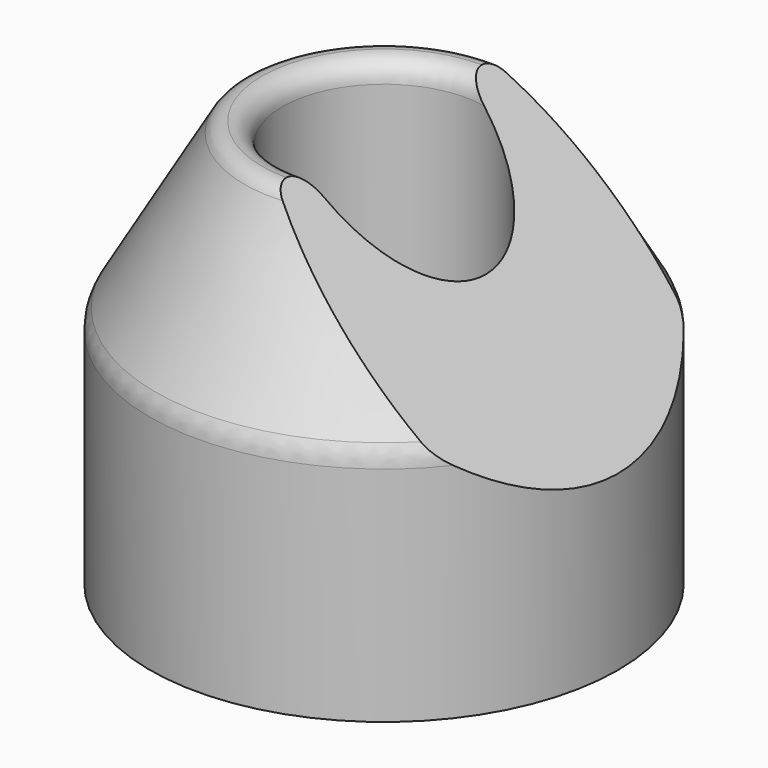
from build123d import *

# Parameters (mm, degrees)
F2_R     = 6.35
F4_DEPTH = 127


with BuildPart() as f1:
    # F0 (on Front) → F1 (revolve)
    with BuildSketch(Plane.XZ):
        with BuildLine():
            ThreePointArc((-21.799631, 61.9125), (-19.87175, 57.258186), (-15.875, 60.325))
            ThreePointArc((-15.875, 60.325), (-16.804936, 62.570064), (-19.05, 63.5))
            ThreePointArc((-19.05, 63.5), (-20.6375, 63.074631), (-21.799631, 61.9125))
        make_face()
        with BuildLine():
            Line((-36.5125, 0), (-15.875, 0))
            Line((-15.875, 0), (-15.875, 60.325))
            ThreePointArc((-15.875, 60.325), (-19.87175, 57.258186), (-21.799631, 61.9125))
            Line((-21.799631, 61.9125), (-36.5125, 36.429063))
            Line((-36.5125, 36.429063), (-36.5125, 0))
        make_face()
    revolve(axis=Axis((0, 0, 26.929792), (0, 0, 1)))

    # F2
    f2_edges = [f1.edges().sort_by_distance(p)[0] for p in [
        (36.5125, 0, 36.429063),
    ]]
    fillet(f2_edges, radius=F2_R)

    # F3 (on Front) → F4 (cut, symmetric)
    with BuildSketch(Plane.XZ):
        Polygon((0, 88.9), (0, 63.5), (50.8, 12.7), (50.8, 88.9), align=None)
    extrude(amount=F4_DEPTH, both=True, mode=Mode.SUBTRACT)


solid = f1.part
